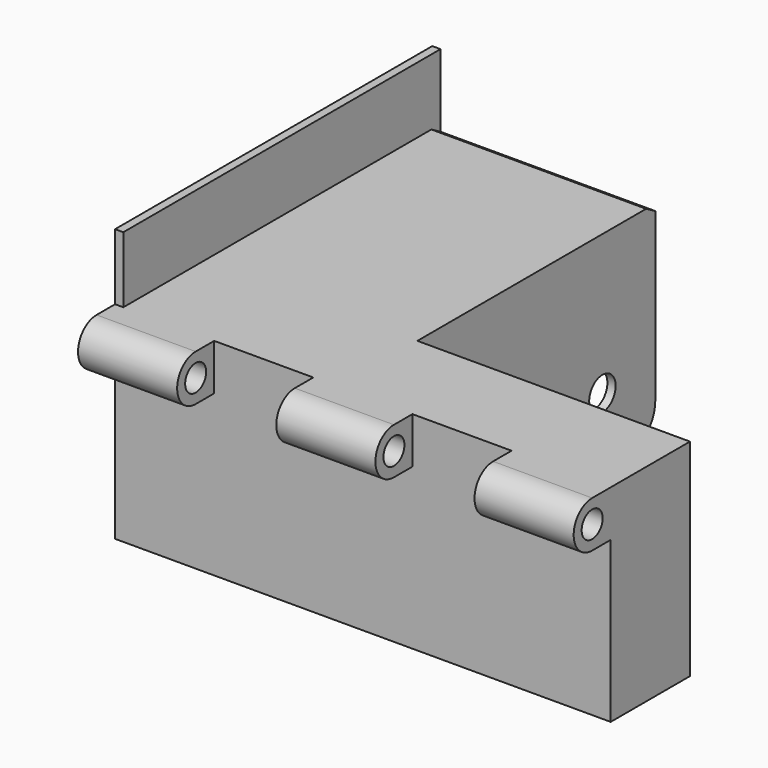
from build123d import *

# Parameters (mm, degrees)
F0_W      = 3.175
F0_H      = 76.2
F0_H_2    = 3.175
F0_W_2    = 79.375
F1_DEPTH  = 152.4
F2_W      = 3.175
F2_H      = 76.2
F2_H_2    = 3.175
F2_W_2    = 31.75
F3_DEPTH  = 76.2
F4_W      = 3.175
F4_H      = 76.2
F5_DEPTH  = 79.375
F6_W      = 3.175
F6_H      = 76.2
F7_DEPTH  = 31.75
F8_R      = 5.0419
F9_DEPTH  = 161.925
F11_DEPTH = 17.781
F12_DEPTH = 61.596
F13_W     = 3.175
F13_H     = 152.4
F14_DEPTH = 25.4
F15_DEPTH = 25.4
F16_R     = 6.35
F17_DEPTH = 85.726
F18_R     = 12.7
F19_SIZE2 = 4.3994090512
F19_SIZE  = 2.54
F20_DEPTH = 38.1
F21_W     = 3.175
F21_H     = 76.2
F22_DEPTH = 31.75
F23_DEPTH = 28.575
F24_DEPTH = 9.525


with BuildPart() as f1:
    # F0 (on Front) → F1 (new body)
    with BuildSketch(Plane.XZ):
        with Locations((1.5875, 38.1)):
            Rectangle(F0_W, F0_H)
        with Locations((1.5875, 77.7875)):
            Rectangle(F0_W, F0_H_2)
        with Locations((42.8625, 77.7875)):
            Rectangle(F0_W_2, F0_H_2)
        with Locations((84.1375, 77.7875)):
            Rectangle(F0_W, F0_H_2)
        with Locations((84.1375, 38.1)):
            Rectangle(F0_W, F0_H)
    extrude(amount=F1_DEPTH)

    # F2 (on face) → F3 (join)
    with BuildSketch(Plane.YZ.offset(85.725)):
        with Locations((-150.8125, 38.1)):
            Rectangle(F2_W, F2_H)
        with Locations((-150.8125, 77.7875)):
            Rectangle(F2_W, F2_H_2)
        with Locations((-133.35, 77.7875)):
            Rectangle(F2_W_2, F2_H_2)
        with Locations((-115.8875, 38.1)):
            Rectangle(F2_W, F2_H)
        with Locations((-115.8875, 77.7875)):
            Rectangle(F2_W, F2_H_2)
    extrude(amount=F3_DEPTH)

    # F4 (on face) → F5 (join, through all)
    with BuildSketch(Plane.YZ.offset(3.175)):
        with Locations((-150.8125, 38.1)):
            Rectangle(F4_W, F4_H)
    extrude(amount=F5_DEPTH)

    # F6 (on face) → F7 (join, through all)
    with BuildSketch(Plane.XZ.offset(117.475)):
        with Locations((160.3375, 38.1)):
            Rectangle(F6_W, F6_H)
    extrude(amount=F7_DEPTH)

    # F8 (on face) → F9 (join, through all)
    with BuildSketch(Plane.YZ.offset(161.925)):
        with BuildLine():
            Line((-152.4, 79.375), (-161.29, 79.375))
            ThreePointArc((-161.29, 79.375), (-170.18, 70.485), (-161.29, 61.595))
            Line((-161.29, 61.595), (-152.4, 61.595))
            Line((-152.4, 61.595), (-152.4, 79.375))
        make_face()
        with Locations((-161.29, 70.485)):
            Circle(F8_R, mode=Mode.SUBTRACT)
    extrude(amount=-F9_DEPTH)

    # F10 (on face) → F11 (cut, through all)
    with BuildSketch(Plane(origin=(0, 0, 61.595), x_dir=(1, 0, 0), z_dir=(0, 0, -1))):
        Polygon((114.3, 152.4), (152.4, 152.4), (152.4, 171.5404093266), (152.4, 189.2811655998), (114.3, 189.2811655998), (114.3, 183.5609525442), align=None)
        Polygon((152.4, 171.5404093266), (152.4, 152.4), (152.4, 103.7641689181), (174.3682473898, 103.7641689181), (174.3682473898, 171.5404093266), align=None)
        Polygon((38.1, 152.4), (76.2, 152.4), (76.2, 183.5609525442), (76.2, 185.6450736523), (38.1, 185.6450736523), (38.1, 184.6726387739), align=None)
    extrude(amount=-F11_DEPTH, mode=Mode.SUBTRACT)

    # F12 (cut, through all): a face of the model
    f12_faces = [f1.faces().sort_by_distance(p)[0] for p in [
        (159.146875, -133.35, 61.595),
    ]]
    extrude(f12_faces, amount=-F12_DEPTH, mode=Mode.SUBTRACT)

    # F13 (on face) → F14 (join)
    with BuildSketch(Plane.XY.offset(79.375)):
        with Locations((1.5875, -76.2)):
            Rectangle(F13_W, F13_H)
    extrude(amount=F14_DEPTH)

    # F15 (cut): a face of the model
    f15_faces = [f1.faces().sort_by_distance(p)[0] for p in [
        (85.725, -133.35, 38.1),
    ]]
    extrude(f15_faces, amount=-F15_DEPTH, mode=Mode.SUBTRACT)

    # F16 (on face) → F17 (cut, through all)
    with BuildSketch(Plane.YZ.offset(85.725)):
        with Locations((-25.4, 25.4)):
            Circle(F16_R)
    extrude(amount=-F17_DEPTH, mode=Mode.SUBTRACT)

    # F18
    f18_edges = [f1.edges().sort_by_distance(p)[0] for p in [
        (84.1375, 0, 0),
        (1.5875, 0, 0),
    ]]
    fillet(f18_edges, radius=F18_R)

    # F19
    f19_edges = [f1.edges().sort_by_distance(p)[0] for p in [
        (44.45, 0, 79.375),
    ]]
    f19_side = f1.faces().sort_by_distance((1.916963, 0, 44.45))[0]
    chamfer(f19_edges, length=F19_SIZE, length2=F19_SIZE2, reference=f19_side)

    # F20 (add): a face of the model
    f20_faces = [f1.faces().sort_by_distance(p)[0] for p in [
        (152.4, -115.1804544636, 39.6875),
    ]]
    extrude(f20_faces, amount=F20_DEPTH)

    # F21 (on face) → F22 (join, through all)
    with BuildSketch(Plane.XZ.offset(117.475)):
        with Locations((188.9125, 38.1)):
            Rectangle(F21_W, F21_H)
    extrude(amount=F22_DEPTH)

    # F8 (on face) → F23 (join, through all)
    with BuildSketch(Plane.YZ.offset(161.925)):
        with BuildLine():
            Line((-152.4, 79.375), (-161.29, 79.375))
            ThreePointArc((-161.29, 79.375), (-170.18, 70.485), (-161.29, 61.595))
            Line((-161.29, 61.595), (-152.4, 61.595))
            Line((-152.4, 61.595), (-152.4, 79.375))
        make_face()
        with Locations((-161.29, 70.485)):
            Circle(F8_R, mode=Mode.SUBTRACT)
    extrude(amount=F23_DEPTH)

    # F24 (add): a face of the model
    f24_faces = [f1.faces().sort_by_distance(p)[0] for p in [
        (161.925, -156.845, 61.8464471714),
    ]]
    extrude(f24_faces, amount=F24_DEPTH)


solid = f1.part
